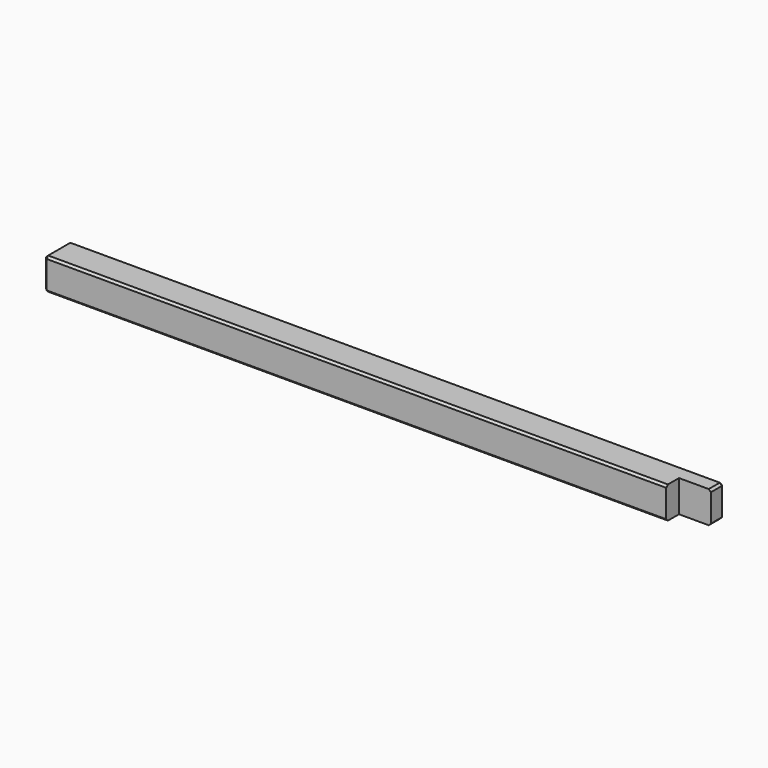
from build123d import *

# Parameters (mm, degrees)
F0_W     = 3075
F0_H     = 150
F1_DEPTH = 150
F2_SIZE  = 10
F3_W     = 140
F3_H     = 65
F4_DEPTH = 150.001


with BuildPart() as f1:
    # F0 (on Top) → F1 (new body)
    with BuildSketch(Plane.XY):
        Rectangle(F0_W, F0_H)
    extrude(amount=F1_DEPTH)

    # F2
    f2_edges = [f1.edges().sort_by_distance(p)[0] for p in [
        (-1537.5, -75, 75),
        (1537.5, -75, 75),
        (0, -75, 0),
        (0, -75, 150),
        (0, 75, 150),
        (-1537.5, 0, 150),
        (1537.5, 0, 150),
        (0, 75, 0),
        (-1537.5, 0, 0),
        (1537.5, 0, 0),
        (1537.5, 75, 75),
        (-1537.5, 75, 75),
    ]]
    chamfer(f2_edges, length=F2_SIZE)

    # F3 (on face) → F4 (cut, through all)
    with BuildSketch(Plane.XY.offset(150)):
        Polygon((1537.5, 0), (1527.5, 0), (1527.5, -65), (1387.5, -65), (1387.5, -79.808988), (1537.5, -79.808988), align=None)
        with Locations((1457.5, -32.5)):
            Rectangle(F3_W, F3_H)
    extrude(amount=-F4_DEPTH, mode=Mode.SUBTRACT)


solid = f1.part
